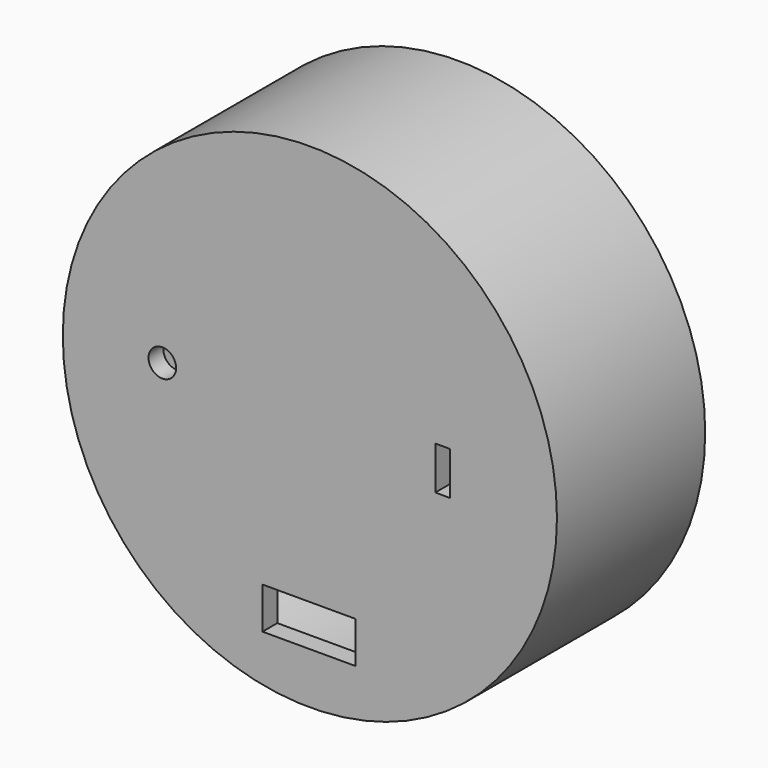
from build123d import *

# Parameters (mm, degrees)
SKETCH046_R          = 60
PAD019_DEPTH         = 45
SKETCH047_R          = 54.5
POCKET020_DEPTH      = 40.5
SKETCH054_W          = 13.996185
SKETCH054_H          = 10.514995
POCKET022_DEPTH      = 3
SKETCH055_W          = 3.607353
SKETCH055_H          = 10.482647
POCKET023_DEPTH      = 46.501
SKETCH056_W          = 22.63
SKETCH056_H          = 10.08
POCKET024_DEPTH      = 5
SKETCH058_R          = 3.35
POCKET025_DEPTH      = 5
POCKET025_DEPTH_BACK = 100
SKETCH059_R          = 57
POCKET026_DEPTH      = 10
SKETCH061_W          = 15
SKETCH061_H          = 29
PAD028_DEPTH         = 26.5
SKETCH062_W          = 12.44
SKETCH062_H          = 22.8
POCKET027_DEPTH      = 12.5
POCKET027_DEPTH_BACK = 6
SKETCH063_W          = 11.698539
SKETCH063_H          = 10.75206
POCKET031_DEPTH      = 5
POCKET032_DEPTH      = 18.28
SKETCH070_W          = 5.148875
SKETCH070_H          = 8.518356
POCKET033_DEPTH      = 5


with BuildPart() as part:
    # Sketch046 → Pad019 (new body)
    with BuildSketch(Plane.XZ):
        with Locations((52.5, -52.5)):
            Circle(SKETCH046_R)
    extrude(amount=PAD019_DEPTH)

    # Sketch047 (on Face2 of Pad019) → Pocket020 (cut)
    with BuildSketch(Plane(origin=(0, 0, 0), x_dir=(1, 0, 0), z_dir=(0, 1, 0))):
        with Locations((52.5, 52.5)):
            Circle(SKETCH047_R)
    extrude(amount=-POCKET020_DEPTH, mode=Mode.SUBTRACT)

    # Sketch054 → Pocket022 (cut)
    with BuildSketch(Plane.XZ.offset(52.5)):
        with Locations((89.9295195, -51.4149685)):
            Rectangle(SKETCH054_W, SKETCH054_H)
    extrude(amount=-POCKET022_DEPTH, mode=Mode.SUBTRACT)

    # Sketch055 (on Face37 of Pocket022) → Pocket023 (cut, through all)
    with BuildSketch(Plane.XZ.offset(46.5)):
        with Locations((84.7541845, -51.4075485)):
            Rectangle(SKETCH055_W, SKETCH055_H)
    extrude(amount=-POCKET023_DEPTH, mode=Mode.SUBTRACT)

    # Sketch056 (on Face3 of Pocket023) → Pocket024 (cut)
    with BuildSketch(Plane.XZ.offset(45)):
        with Locations((52.3097458031, -95.0004416785)):
            Rectangle(SKETCH056_W, SKETCH056_H)
    extrude(amount=-POCKET024_DEPTH, mode=Mode.SUBTRACT)

    # Sketch058 → Pocket025 (cut, two sides)
    with BuildSketch(Plane(origin=(0, -44.5, 0), x_dir=(1, 0, 0), z_dir=(0, 1, 0))) as pocket025_sk:
        with Locations((16.6674273862, 50.4959887414)):
            Circle(SKETCH058_R)
    extrude(amount=-POCKET025_DEPTH, mode=Mode.SUBTRACT)
    extrude(pocket025_sk.sketch, amount=POCKET025_DEPTH_BACK, mode=Mode.SUBTRACT)

    # Sketch059 (on Face2 of Pocket025) → Pocket026 (cut)
    with BuildSketch(Plane(origin=(0, 0, 0), x_dir=(1, 0, 0), z_dir=(0, 1, 0))):
        with Locations((52.5, 52.5)):
            Circle(SKETCH059_R)
    extrude(amount=-POCKET026_DEPTH, mode=Mode.SUBTRACT)

    # Sketch061 (on Face15 of Pocket026) → Pad028 (join)
    with BuildSketch(Plane(origin=(0, -40.5, 0), x_dir=(1, 0, 0), z_dir=(0, 1, 0))):
        with Locations((52.5, 52.5)):
            Rectangle(SKETCH061_W, SKETCH061_H)
    extrude(amount=PAD028_DEPTH)

    # Sketch062 → Pocket027 (cut, two sides)
    with BuildSketch(Plane(origin=(0, -20, 0), x_dir=(1, 0, 0), z_dir=(0, 1, 0))) as pocket027_sk:
        with Locations((52.5, 52.5)):
            Rectangle(SKETCH062_W, SKETCH062_H)
    extrude(amount=-POCKET027_DEPTH, mode=Mode.SUBTRACT)
    extrude(pocket027_sk.sketch, amount=POCKET027_DEPTH_BACK, mode=Mode.SUBTRACT)

    # Sketch063 (on Face18 of Pocket027) → Pocket031 (cut)
    with BuildSketch(Plane(origin=(0, 0, -38), x_dir=(-1, 0, 0), z_dir=(0, 0, 1))):
        with Locations((-52.4716495, 26.589729)):
            Rectangle(SKETCH063_W, SKETCH063_H)
    extrude(amount=-POCKET031_DEPTH, mode=Mode.SUBTRACT)

    # Sketch064 (on Face17 of Pocket031) → Pocket032 (cut)
    with BuildSketch(Plane(origin=(45, 0, 0), x_dir=(0, 0, -1), z_dir=(-1, 0, 0))):
        Polygon((48.289669, 29.4052434227), (46.789669, 32.0033196341), (43.789669, 32.0033196341), (42.289669, 29.4052434227), (43.789669, 26.8071672114), (46.789669, 26.8071672114), align=None)
        Polygon((48.289669, 23.209091), (46.789669, 25.8071672114), (43.789669, 25.8071672114), (42.289669, 23.209091), (43.789669, 20.6110147886), (46.789669, 20.6110147886), align=None)
        Polygon((55.289669, 29.4052434227), (53.789669, 32.0033196341), (50.789669, 32.0033196341), (49.289669, 29.4052434227), (50.789669, 26.8071672114), (53.789669, 26.8071672114), align=None)
        Polygon((55.289669, 23.209091), (53.789669, 25.8071672114), (50.789669, 25.8071672114), (49.289669, 23.209091), (50.789669, 20.6110147886), (53.789669, 20.6110147886), align=None)
        Polygon((62.289669, 29.4052434227), (60.789669, 32.0033196341), (57.789669, 32.0033196341), (56.289669, 29.4052434227), (57.789669, 26.8071672114), (60.789669, 26.8071672114), align=None)
        Polygon((62.289669, 23.209091), (60.789669, 25.8071672114), (57.789669, 25.8071672114), (56.289669, 23.209091), (57.789669, 20.6110147886), (60.789669, 20.6110147886), align=None)
        Polygon((48.289669, 17.0129385773), (46.789669, 19.6110147886), (43.789669, 19.6110147886), (42.289669, 17.0129385773), (43.789669, 14.4148623659), (46.789669, 14.4148623659), align=None)
        Polygon((55.289669, 17.0129385773), (53.789669, 19.6110147886), (50.789669, 19.6110147886), (49.289669, 17.0129385773), (50.789669, 14.4148623659), (53.789669, 14.4148623659), align=None)
        Polygon((62.289669, 17.0129385773), (60.789669, 19.6110147886), (57.789669, 19.6110147886), (56.289669, 17.0129385773), (57.789669, 14.4148623659), (60.789669, 14.4148623659), align=None)
    extrude(amount=-POCKET032_DEPTH, mode=Mode.SUBTRACT)

    # Sketch070 (on Face167 of Pad029) → Pocket033 (cut)
    with BuildSketch(Plane(origin=(0, 0, -41.1), x_dir=(1, 0, 0), z_dir=(0, 0, -1))):
        with Locations((52.6262685, 17.84922)):
            Rectangle(SKETCH070_W, SKETCH070_H)
    extrude(amount=-POCKET033_DEPTH, mode=Mode.SUBTRACT)


with BuildPart() as part_1:
    # Body008 placement: moved
    add(part.part.moved(Location((0, 155, 0))))


solid = part_1.part
